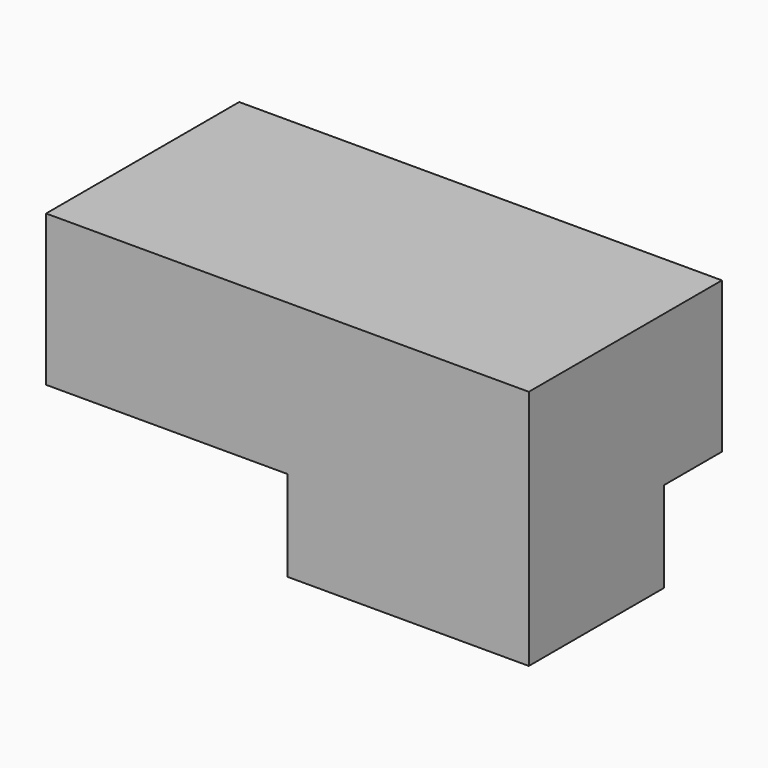
from build123d import *

# Parameters (mm, degrees)
F0_W     = 2032
F0_H     = 1016
F1_DEPTH = 635
F2_W     = 1016
F2_H     = 711.2
F3_DEPTH = 381
F4_W     = 508
F4_H     = 508
F5_DEPTH = 381


with BuildPart() as f1:
    # F0 (on Top) → F1 (new body)
    with BuildSketch(Plane.XY):
        with Locations((-18.151204, -1410.432026)):
            Rectangle(F0_W, F0_H)
    extrude(amount=F1_DEPTH)

    # F2 (on face) → F3 (join)
    with BuildSketch(Plane(origin=(0, 0, 0), x_dir=(1, 0, 0), z_dir=(0, 0, -1))):
        with Locations((489.848796, 1562.832026)):
            Rectangle(F2_W, F2_H)
    extrude(amount=F3_DEPTH)

    # F4 (on face) → F5 (cut)
    with BuildSketch(Plane(origin=(0, 0, 0), x_dir=(1, 0, 0), z_dir=(0, 0, -1))):
        with Locations((-780.151204, 1156.432026)):
            Rectangle(F4_W, F4_H)
    extrude(amount=-F5_DEPTH, mode=Mode.SUBTRACT)


solid = f1.part
